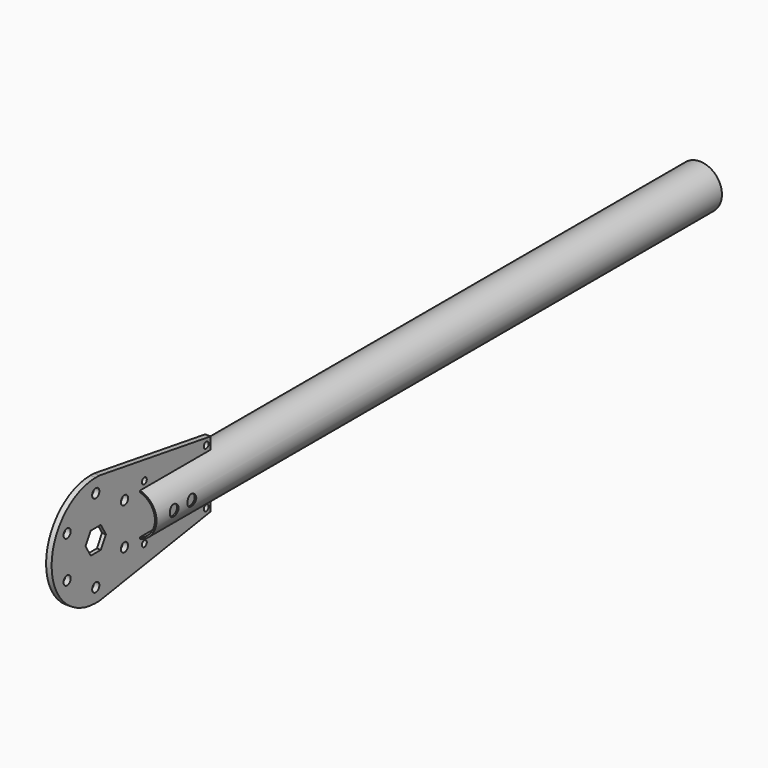
from build123d import *

# Parameters (mm, degrees)
F0_R          = 12.7
F0_R_2        = 11.811
F1_DEPTH      = 406.4
F2_R          = 3.175
F3_DEPTH      = 12.701
F3_DEPTH_BACK = 25.4
F4_R          = 2.5908
F4_R_2        = 1.7526
F4_R_3        = 3.175
F5_DEPTH      = 3.175
F6_R          = 14.2875
F7_DEPTH      = 0.889


with BuildPart() as f1:
    # F0 (on Front) → F1 (new body)
    with BuildSketch(Plane.XZ):
        Circle(F0_R)
        Circle(F0_R_2, mode=Mode.SUBTRACT)
    extrude(amount=-F1_DEPTH)

    # F2 (on Right) → F3 (cut, two sides)
    with BuildSketch(Plane.YZ) as f3_sk:
        with Locations((12.7, 0)):
            Circle(F2_R)
        with Locations((25.4, 0)):
            Circle(F2_R)
    extrude(amount=-F3_DEPTH, mode=Mode.SUBTRACT)
    extrude(f3_sk.sketch, amount=F3_DEPTH_BACK, mode=Mode.SUBTRACT)


with BuildPart() as f5:
    # F4 (on Right) → F5 (new body)
    with BuildSketch(Plane.YZ):
        with BuildLine():
            Line((-29.246976355, 31.75), (-31.75, 31.75))
            ThreePointArc((-31.75, 31.75), (-63.5, 0), (-31.75, -31.75))
            Line((-31.75, -31.75), (-29.246976355, -31.75))
            Line((-29.246976355, -31.75), (50.8, -19.05))
            Line((50.8, -19.05), (50.8, 19.05))
            Line((50.8, 19.05), (-29.246976355, 31.75))
        make_face()
        with Locations((-31.75, -23.8125)):
            Circle(F4_R, mode=Mode.SUBTRACT)
        with Locations((-52.3722299276, -11.90625)):
            Circle(F4_R, mode=Mode.SUBTRACT)
        with Locations((-11.1277700724, -11.90625)):
            Circle(F4_R, mode=Mode.SUBTRACT)
        with Locations((3.175, -15.875)):
            Circle(F4_R_2, mode=Mode.SUBTRACT)
        with Locations((47.625, -15.875)):
            Circle(F4_R_2, mode=Mode.SUBTRACT)
        with Locations((-52.3722299276, 11.90625)):
            Circle(F4_R, mode=Mode.SUBTRACT)
        Polygon((-24.4176515813, 0), (-28.0838257906, -6.35), (-35.4161742094, -6.35), (-39.0823484187, 0), (-35.4161742094, 6.35), (-28.0838257906, 6.35), align=None, mode=Mode.SUBTRACT)
        with Locations((-11.1277700724, 11.90625)):
            Circle(F4_R, mode=Mode.SUBTRACT)
        with Locations((-31.75, 23.8125)):
            Circle(F4_R, mode=Mode.SUBTRACT)
        with Locations((12.7, 0)):
            Circle(F4_R_3, mode=Mode.SUBTRACT)
        with Locations((25.4, 0)):
            Circle(F4_R_3, mode=Mode.SUBTRACT)
        with Locations((38.1, 0)):
            Circle(F4_R_3, mode=Mode.SUBTRACT)
        with Locations((3.175, 15.875)):
            Circle(F4_R_2, mode=Mode.SUBTRACT)
        with Locations((47.625, 15.875)):
            Circle(F4_R_2, mode=Mode.SUBTRACT)
    extrude(amount=F5_DEPTH)

    # F6 (on face) → F7 (cut)
    with BuildSketch(Plane(origin=(0, 0, 0), x_dir=(0, -1, 0), z_dir=(-1, 0, 0))):
        with Locations((31.75, 0)):
            Circle(F6_R)
    extrude(amount=-F7_DEPTH, mode=Mode.SUBTRACT)


solid = Compound([f1.part, f5.part])
